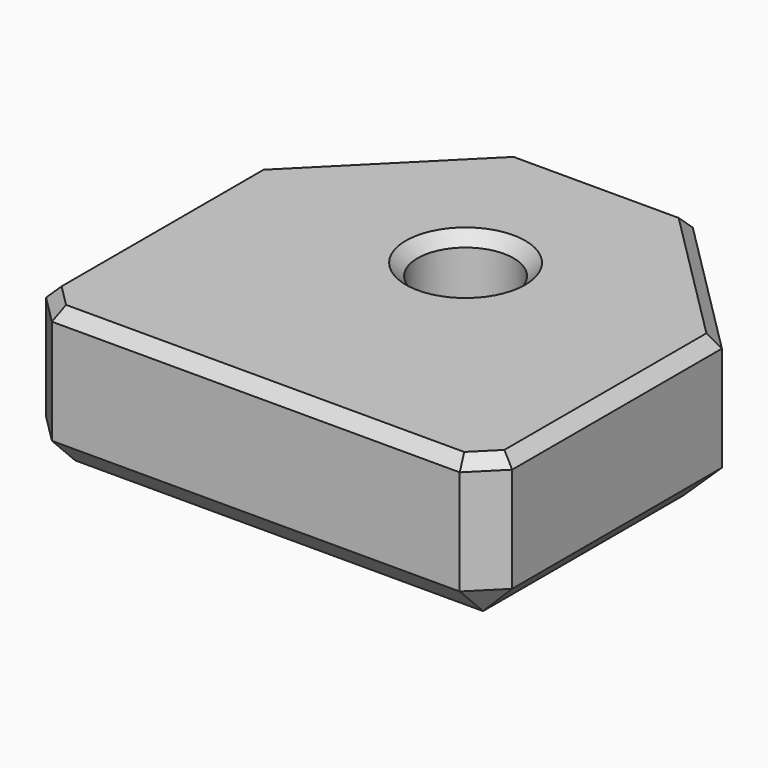
from build123d import *

# Parameters (mm, degrees)
CYLINDER001_R     = 1.65
CYLINDER001_DEPTH = 10
CYLINDER_R        = 3.2
CYLINDER_DEPTH    = 4
BOX001_W          = 16
BOX001_H          = 15
BOX001_DEPTH      = 5
CHAMFER_SIZE      = 5
CHAMFER001_SIZE   = 1
CHAMFER002_SIZE   = 0.4


with BuildPart() as cylinder001:
    # Cylinder001 → Cylinder001 (new body)
    with BuildSketch(Plane(origin=(0, 9, 0), x_dir=(1, 0, 0), z_dir=(0, 0, 1))):
        Circle(CYLINDER001_R)
    extrude(amount=CYLINDER001_DEPTH)


with BuildPart() as fusion:
    # Cylinder → Cylinder (new body)
    with BuildSketch(Plane(origin=(0, 9, 0), x_dir=(1, 0, 0), z_dir=(0, 0, 1))):
        Circle(CYLINDER_R)
    extrude(amount=CYLINDER_DEPTH)

    # Fusion: union Cylinder001
    add(cylinder001.part)


with BuildPart() as fusion_1:
    # Fusion placement: moved
    add(fusion.part.moved(Location((0, 0, -1))))


with BuildPart() as chamfer002:
    # Box001 → Box001 (new body)
    with BuildSketch(Plane(origin=(-8, 0, 0), x_dir=(1, 0, 0), z_dir=(0, 0, 1))):
        with Locations((8, 7.5)):
            Rectangle(BOX001_W, BOX001_H)
    extrude(amount=BOX001_DEPTH)

    # Cut: cut Fusion
    add(fusion_1.part, mode=Mode.SUBTRACT)

    # Chamfer
    chamfer_edges = [chamfer002.edges().sort_by_distance(p)[0] for p in [
        (-8, 15, 2.5),
        (8, 15, 2.5),
    ]]
    chamfer(chamfer_edges, length=CHAMFER_SIZE)

    # Chamfer001
    chamfer001_edges = [chamfer002.edges().sort_by_distance(p)[0] for p in [
        (-8, 0, 2.5),
        (-8, 5, 0),
        (-5.5, 12.5, 0),
        (0, 0, 0),
        (8, 0, 2.5),
        (0, 15, 0),
        (8, 5, 0),
        (5.5, 12.5, 0),
    ]]
    chamfer(chamfer001_edges, length=CHAMFER001_SIZE)

    # Chamfer002
    chamfer002_edges = [chamfer002.edges().sort_by_distance(p)[0] for p in [
        (-8, 5.5, 5),
        (-7.5, 0.5, 5),
        (-5.5, 12.5, 5),
        (0, 0, 5),
        (0, 15, 5),
        (7.5, 0.5, 5),
        (5.5, 12.5, 5),
        (8, 5.5, 5),
        (-1.65, 9, 5),
    ]]
    chamfer(chamfer002_edges, length=CHAMFER002_SIZE)


solid = chamfer002.part
